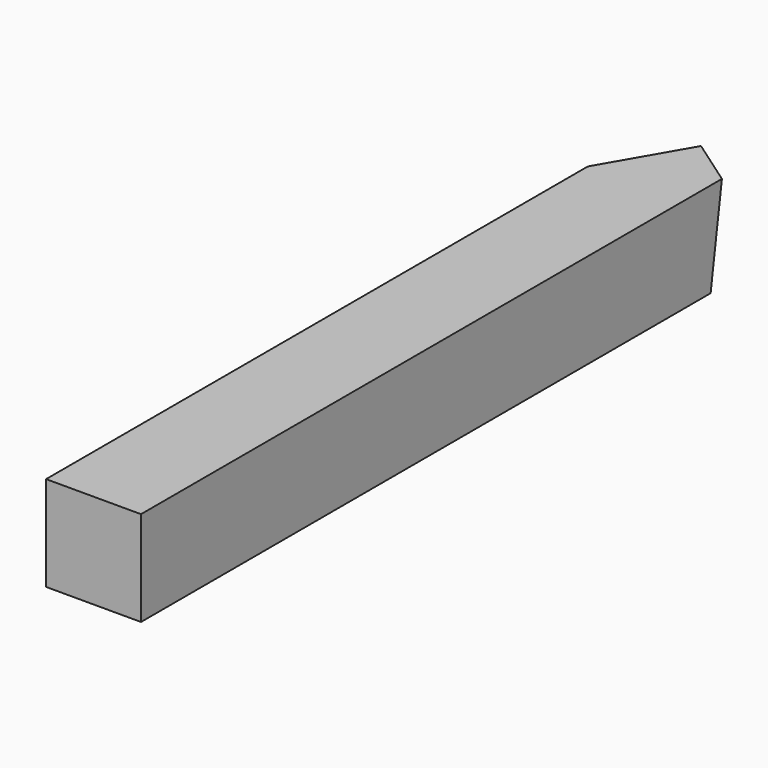
from build123d import *

# Parameters (mm, degrees)
F0_W     = 6.35
F0_H     = 6.35
F1_DEPTH = 50.8
F6_DEPTH = 25.4
F8_DEPTH = 25.4


with BuildPart() as f1:
    # F0 (on Front) → F1 (new body)
    with BuildSketch(Plane.XZ):
        Rectangle(F0_W, F0_H)
    extrude(amount=F1_DEPTH)

    # F5: sweep along a path in F4
    with BuildLine(Plane.XY.offset(3.175)) as f5_path:
        Line((0, 0), (-7.3544457124, -12.7382736354))
    # F3 (on face) → F5 (sweep, cut)
    with BuildSketch(Plane(origin=(0, 0, 0), x_dir=(-1, 0, 0), z_dir=(0, 1, 0))):
        Polygon((0, -3.175), (0, 3.175), (-1.3497341666, -3.175), align=None)
    sweep(path=f5_path.line, mode=Mode.SUBTRACT)

    # F2 (on face) → F6 (cut)
    with BuildSketch(Plane.XY.offset(3.175)):
        Polygon((-3.175, -5.499261314), (0, 0), (-3.175, 0), align=None)
    extrude(amount=-F6_DEPTH, mode=Mode.SUBTRACT)

    # F7: sweep along a path in F4
    with BuildLine(Plane.XY.offset(3.175)) as f7_path:
        Line((0, 0), (31.0128101016, -21.7154034142))
    # F3 (on face) → F7 (sweep, cut)
    with BuildSketch(Plane(origin=(0, 0, 0), x_dir=(-1, 0, 0), z_dir=(0, 1, 0))):
        Polygon((1.3497341666, -3.175), (0, 3.175), (0, -3.175), align=None)
    sweep(path=f7_path.line, mode=Mode.SUBTRACT)

    # F4 (on face) → F8 (cut)
    with BuildSketch(Plane.XY.offset(3.175)):
        Polygon((3.175, 0), (0, 0), (3.175, -2.2231589338), align=None)
    extrude(amount=-F8_DEPTH, mode=Mode.SUBTRACT)


solid = f1.part
